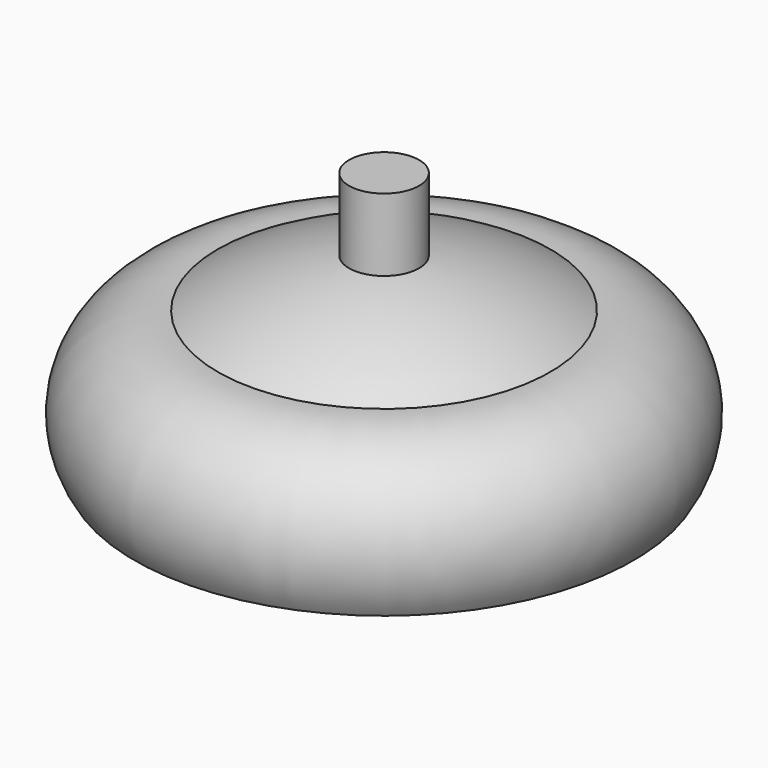
from build123d import *


with BuildPart() as f1:
    # F0 (on Front) → F1 (revolve)
    with BuildSketch(Plane.XZ):
        with BuildLine():
            Line((0, -38.516654), (0, -9.382723))
            Line((0, -9.382723), (-3.9243, -9.382723))
            Line((-3.9243, -9.382723), (-3.9243, -17.510723))
            ThreePointArc((-3.9243, -17.510723), (-11.551771, -19.491884), (-18.627086, -22.96222))
            ThreePointArc((-18.627086, -22.96222), (-28.139481, -27.832038), (-27.94, -38.516654))
            Line((-27.94, -38.516654), (0, -38.516654))
        make_face()
    revolve(axis=Axis((0, 0, 10.488518), (0, 0, -1)))


solid = f1.part
